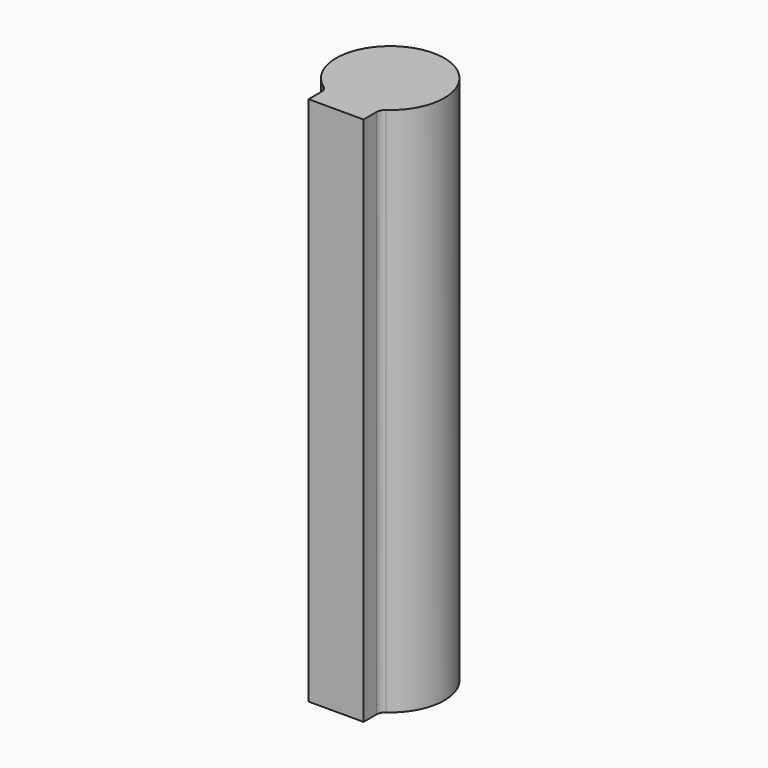
from build123d import *

# Parameters (mm, degrees)
F1_DEPTH = 61.26419
F2_R     = 1.016


with BuildPart() as f1:
    # F0 (on Top) → F1 (new body)
    with BuildSketch(Plane.XY):
        with BuildLine():
            Line((-3.175, -7.821882), (3.175, -7.821882))
            Line((3.175, -7.821882), (3.175, -5.383482))
            ThreePointArc((3.175, -5.383482), (0, 6.25), (-3.175, -5.383482))
            Line((-3.175, -5.383482), (-3.175, -7.821882))
        make_face()
        with BuildLine():
            Line((-3.175, -7.821882), (3.175, -7.821882))
            Line((3.175, -7.821882), (3.175, -5.383482))
            ThreePointArc((3.175, -5.383482), (0, 6.25), (-3.175, -5.383482))
            Line((-3.175, -5.383482), (-3.175, -7.821882))
        make_face()
    extrude(amount=F1_DEPTH)

    # F2
    f2_edges = [f1.edges().sort_by_distance(p)[0] for p in [
        (-3.175, -5.383482, 30.632095),
        (3.175, -5.383482, 30.632095),
    ]]
    fillet(f2_edges, radius=F2_R)


solid = f1.part
